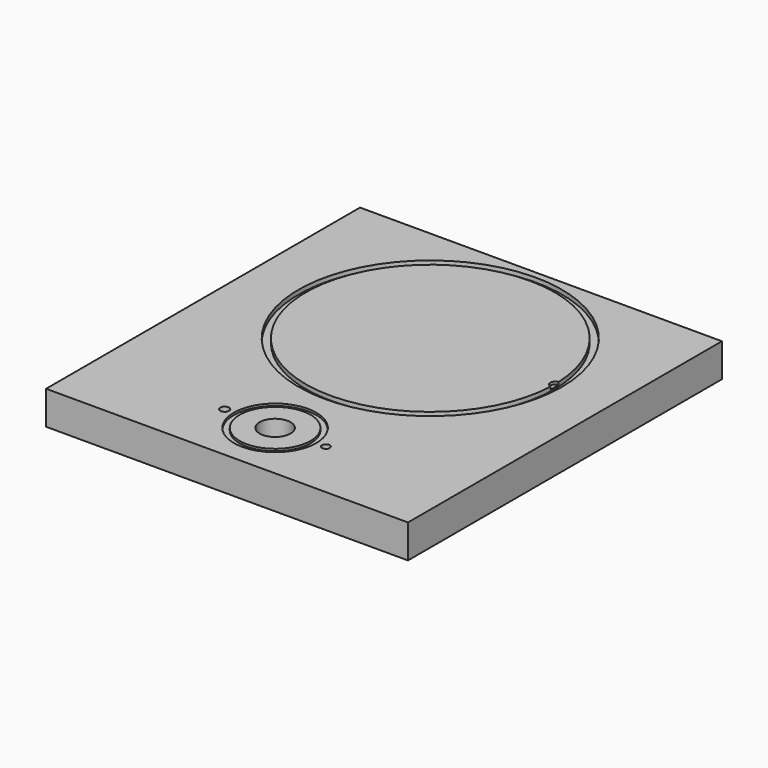
from build123d import *

# Parameters (mm, degrees)
CYLINDER163_R     = 2.58
CYLINDER163_DEPTH = 29
CYLINDER161_R     = 72.517
CYLINDER161_DEPTH = 3
CYLINDER160_R     = 76.708
CYLINDER160_DEPTH = 3
CYLINDER162_R     = 3.02
CYLINDER162_DEPTH = 2
CYLINDER159_R     = 9
CYLINDER159_DEPTH = 21
CYLINDER158_R     = 20.635
CYLINDER158_DEPTH = 41.275
CYLINDER157_R     = 24
CYLINDER157_DEPTH = 3.175
CYLINDER164_R     = 2.28
CYLINDER164_DEPTH = 29
BOX_W             = 210.82
BOX_H             = 228.6
BOX_DEPTH         = 19.5


with BuildPart() as cylinder015:
    # Cylinder163 → Cylinder163 (new body)
    with BuildSketch(Plane(origin=(76, 35, 14), x_dir=(1, 0, 0), z_dir=(0, 0, 1))):
        Circle(CYLINDER163_R)
    extrude(amount=CYLINDER163_DEPTH)


with BuildPart() as cylinder013:
    # Cylinder161 → Cylinder161 (new body)
    with BuildSketch(Plane(origin=(105.41, 148, 17), x_dir=(1, 0, 0), z_dir=(0, 0, 1))):
        Circle(CYLINDER161_R)
    extrude(amount=CYLINDER161_DEPTH)


with BuildPart() as cut021:
    # Cylinder160 → Cylinder160 (new body)
    with BuildSketch(Plane(origin=(105.41, 148, 17), x_dir=(1, 0, 0), z_dir=(0, 0, 1))):
        Circle(CYLINDER160_R)
    extrude(amount=CYLINDER160_DEPTH)

    # Cut021: cut Cylinder013
    add(cylinder013.part, mode=Mode.SUBTRACT)


with BuildPart() as cylinder014:
    # Cylinder162 → Cylinder162 (new body)
    with BuildSketch(Plane(origin=(178.41, 148, 18), x_dir=(1, 0, 0), z_dir=(0, 0, 1))):
        Circle(CYLINDER162_R)
    extrude(amount=CYLINDER162_DEPTH)


with BuildPart() as cylinder011:
    # Cylinder159 → Cylinder159 (new body)
    with BuildSketch(Plane(origin=(105.41, 35, 0), x_dir=(1, 0, 0), z_dir=(0, 0, 1))):
        Circle(CYLINDER159_R)
    extrude(amount=CYLINDER159_DEPTH)


with BuildPart() as cylinder010:
    # Cylinder158 → Cylinder158 (new body)
    with BuildSketch(Plane.XY):
        Circle(CYLINDER158_R)
    extrude(amount=CYLINDER158_DEPTH)


with BuildPart() as cut020:
    # Cylinder157 → Cylinder157 (new body)
    with BuildSketch(Plane.XY):
        Circle(CYLINDER157_R)
    extrude(amount=CYLINDER157_DEPTH)

    # Cut020: cut Cylinder010
    add(cylinder010.part, mode=Mode.SUBTRACT)


with BuildPart() as cut020_1:
    # Cut020 placement: moved
    add(cut020.part.moved(Location((105.41, 35, 18.25))))


with BuildPart() as fusion058:
    # Cylinder164 → Cylinder164 (new body)
    with BuildSketch(Plane(origin=(135, 35, 14), x_dir=(1, 0, 0), z_dir=(0, 0, 1))):
        Circle(CYLINDER164_R)
    extrude(amount=CYLINDER164_DEPTH)

    # Fusion058: union Cylinder015, Cut021, Cylinder014, Cylinder011, Cut020
    add(cylinder015.part)
    add(cut021.part)
    add(cylinder014.part)
    add(cylinder011.part)
    add(cut020_1.part)


with BuildPart() as model_cut023:
    # Box → Box (new body)
    with BuildSketch(Plane.XY):
        with Locations((105.41, 114.3)):
            Rectangle(BOX_W, BOX_H)
    extrude(amount=BOX_DEPTH)

    # Cut022: cut Fusion058
    add(fusion058.part, mode=Mode.SUBTRACT)


solid = model_cut023.part
